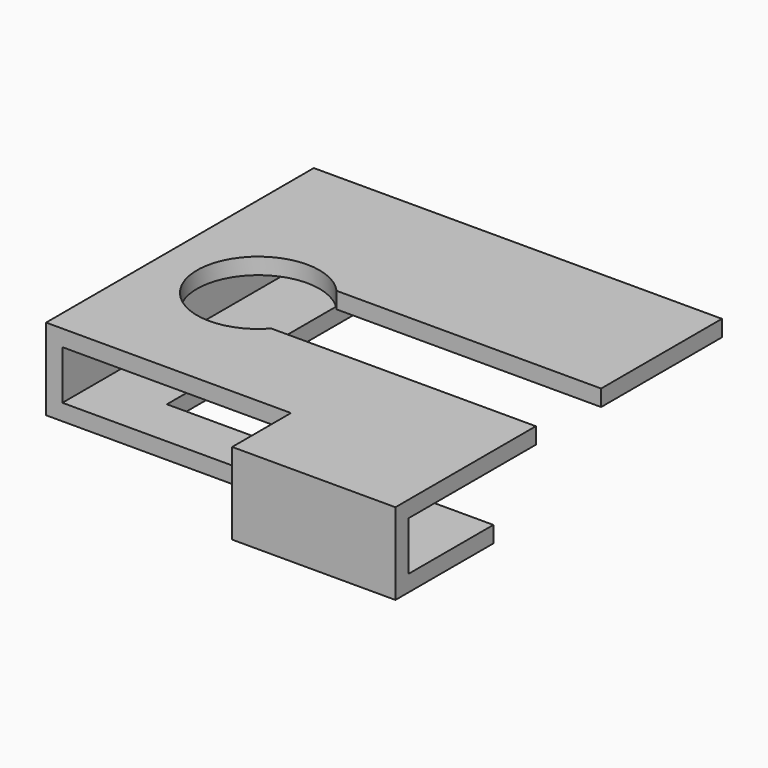
from build123d import *

# Parameters (mm, degrees)
F1_DEPTH = 2
F2_W     = 20
F2_H     = 2
F2_W_2   = 2
F2_H_2   = 41
F3_DEPTH = 6
F4_W     = 2
F4_H     = 41
F5_DEPTH = 2


with BuildPart() as f1:
    # F0 (on Top) → F1 (new body)
    with BuildSketch(Plane.XY):
        Polygon((-15, 25), (-25, 25), (-25, -16), (5, -16), (5, -25), (25, -25), (25, -10), (-15, -10), align=None)
    extrude(amount=F1_DEPTH)

    # F2 (on face) → F3 (join)
    with BuildSketch(Plane.XY.offset(2)):
        with Locations((15, -24)):
            Rectangle(F2_W, F2_H)
        with Locations((-24, 4.5)):
            Rectangle(F2_W_2, F2_H_2)
    extrude(amount=F3_DEPTH)

    # F4 (on face) → F5 (join)
    with BuildSketch(Plane.XY.offset(8)):
        with Locations((-24, 4.5)):
            Rectangle(F4_W, F4_H)
        with BuildLine():
            Line((25, 25), (-23, 25))
            Line((-23, 25), (-23, -16))
            Line((-23, -16), (5, -16))
            Line((5, -16), (5, -25))
            Line((5, -25), (25, -25))
            Line((25, -25), (25, -3.5))
            Line((25, -3.5), (-7.4098300563, -3.5))
            ThreePointArc((-7.4098300563, -3.5), (-20.5, 1.5), (-7.4098300563, 6.5))
            Line((-7.4098300563, 6.5), (25, 6.5))
            Line((25, 6.5), (25, 25))
        make_face()
    extrude(amount=F5_DEPTH)


solid = f1.part
